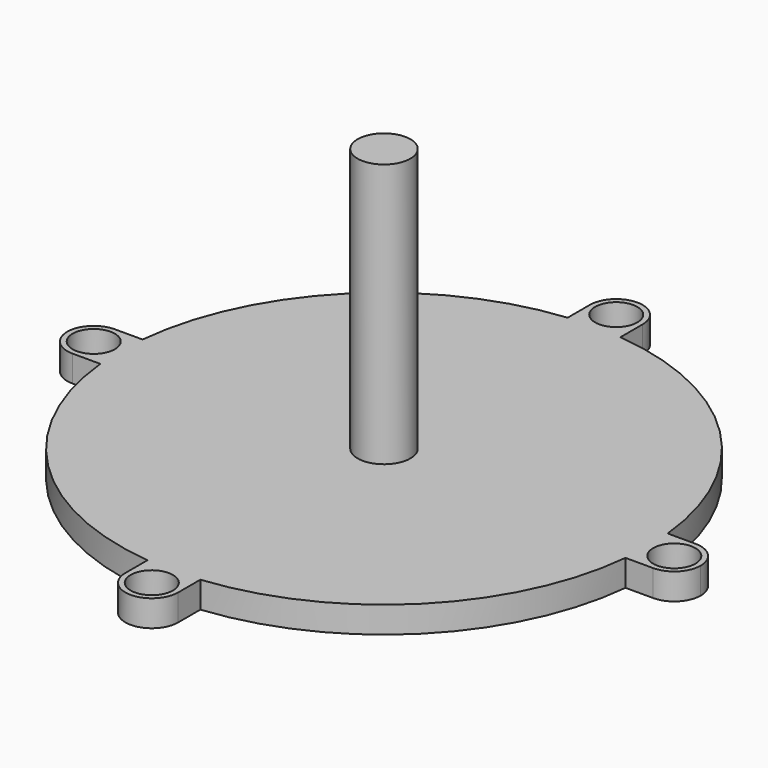
from build123d import *

# Parameters (mm, degrees)
F0_R     = 4
F1_DEPTH = 2.5
F2_R     = 5
F3_DEPTH = 50


with BuildPart() as f1:
    # F0 (on Top) → F1 (new body, symmetric)
    with BuildSketch(Plane.XY):
        with BuildLine():
            ThreePointArc((49.749372, -5), (49.937304, -2.503139), (50, 0))
            ThreePointArc((50, 0), (49.937304, 2.503139), (49.749372, 5))
            ThreePointArc((49.749372, 5), (35.355339, 35.355339), (5, 49.749372))
            ThreePointArc((5, 49.749372), (2.503139, 49.937304), (0, 50))
            ThreePointArc((0, 50), (-2.503139, 49.937304), (-5, 49.749372))
            ThreePointArc((-5, 49.749372), (-35.355339, 35.355339), (-49.749372, 5))
            ThreePointArc((-49.749372, 5), (-49.937304, 2.503139), (-50, 0))
            ThreePointArc((-50, 0), (-49.937304, -2.503139), (-49.749372, -5))
            ThreePointArc((-49.749372, -5), (-35.355339, -35.355339), (-5, -49.749372))
            ThreePointArc((-5, -49.749372), (-2.503139, -49.937304), (0, -50))
            ThreePointArc((0, -50), (2.503139, -49.937304), (5, -49.749372))
            ThreePointArc((5, -49.749372), (35.355339, -35.355339), (49.749372, -5))
        make_face()
        with BuildLine():
            ThreePointArc((-5, 55), (-3.535534, 51.464466), (0, 50))
            ThreePointArc((0, 50), (3.535534, 51.464466), (5, 55))
            ThreePointArc((5, 55), (0, 60), (-5, 55))
        make_face()
        with BuildLine():
            ThreePointArc((4, 55), (2.828427, 52.171573), (0, 51))
            ThreePointArc((0, 51), (-2.828427, 57.828427), (4, 55))
        make_face(mode=Mode.SUBTRACT)
        with BuildLine():
            ThreePointArc((-5, 49.749372), (-2.503139, 49.937304), (0, 50))
            ThreePointArc((0, 50), (-3.535534, 51.464466), (-5, 55))
            Line((-5, 55), (-5, 49.749372))
        make_face()
        with BuildLine():
            ThreePointArc((0, 50), (2.503139, 49.937304), (5, 49.749372))
            Line((5, 49.749372), (5, 55))
            ThreePointArc((5, 55), (3.535534, 51.464466), (0, 50))
        make_face()
        with BuildLine():
            ThreePointArc((55, 5), (51.464466, 3.535534), (50, 0))
            ThreePointArc((50, 0), (51.464466, -3.535534), (55, -5))
            ThreePointArc((55, -5), (58.535534, -3.535534), (60, 0))
            ThreePointArc((60, 0), (58.535534, 3.535534), (55, 5))
        make_face()
        with Locations((55, 0)):
            Circle(F0_R, mode=Mode.SUBTRACT)
        with BuildLine():
            ThreePointArc((55, -5), (51.464466, -3.535534), (50, 0))
            ThreePointArc((50, 0), (49.937304, -2.503139), (49.749372, -5))
            Line((49.749372, -5), (55, -5))
        make_face()
        with BuildLine():
            ThreePointArc((49.749372, 5), (49.937304, 2.503139), (50, 0))
            ThreePointArc((50, 0), (51.464466, 3.535534), (55, 5))
            Line((55, 5), (49.749372, 5))
        make_face()
        with BuildLine():
            Line((5, -55), (5, -49.749372))
            ThreePointArc((5, -49.749372), (2.503139, -49.937304), (0, -50))
            ThreePointArc((0, -50), (3.535534, -51.464466), (5, -55))
        make_face()
        with BuildLine():
            ThreePointArc((-5, -55), (-3.535534, -51.464466), (0, -50))
            ThreePointArc((0, -50), (-2.503139, -49.937304), (-5, -49.749372))
            Line((-5, -49.749372), (-5, -55))
        make_face()
        with BuildLine():
            ThreePointArc((5, -55), (3.535534, -51.464466), (0, -50))
            ThreePointArc((0, -50), (-3.535534, -51.464466), (-5, -55))
            ThreePointArc((-5, -55), (0, -60), (5, -55))
        make_face()
        with Locations((0, -55)):
            Circle(F0_R, mode=Mode.SUBTRACT)
        with BuildLine():
            ThreePointArc((-55, -5), (-51.464466, -3.535534), (-50, 0))
            ThreePointArc((-50, 0), (-51.464466, 3.535534), (-55, 5))
            ThreePointArc((-55, 5), (-60, 0), (-55, -5))
        make_face()
        with Locations((-55, 0)):
            Circle(F0_R, mode=Mode.SUBTRACT)
        with BuildLine():
            Line((-55, -5), (-49.749372, -5))
            ThreePointArc((-49.749372, -5), (-49.937304, -2.503139), (-50, 0))
            ThreePointArc((-50, 0), (-51.464466, -3.535534), (-55, -5))
        make_face()
        with BuildLine():
            ThreePointArc((-50, 0), (-49.937304, 2.503139), (-49.749372, 5))
            Line((-49.749372, 5), (-55, 5))
            ThreePointArc((-55, 5), (-51.464466, 3.535534), (-50, 0))
        make_face()
    extrude(amount=F1_DEPTH, both=True)

    # F2 (on face) → F3 (join)
    with BuildSketch(Plane.XY.offset(2.5)):
        Circle(F2_R)
    extrude(amount=F3_DEPTH)


solid = f1.part
